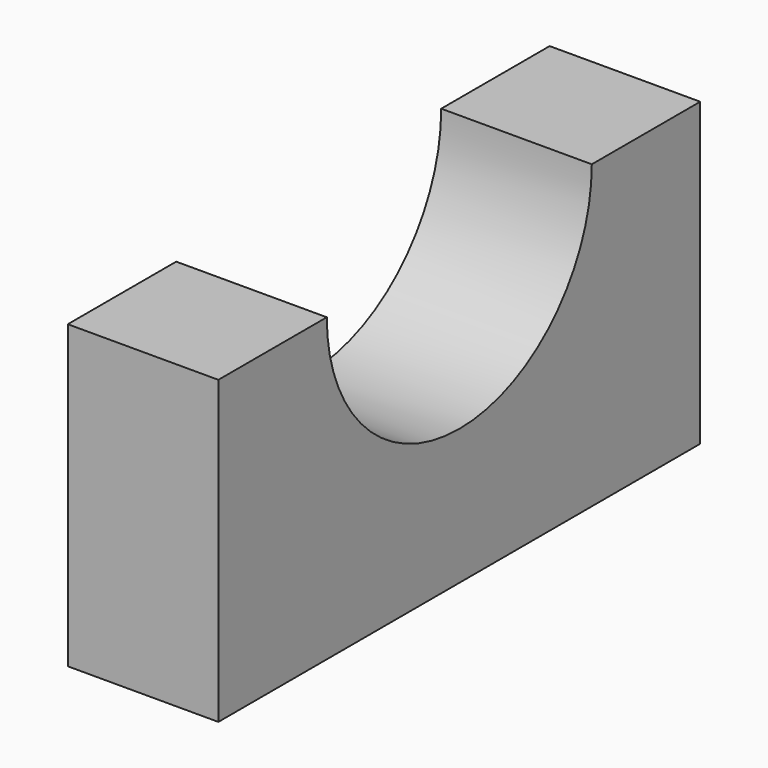
from build123d import *

# Parameters (mm, degrees)
F0_W     = 10
F0_H     = 40
F1_DEPTH = 20
F2_R     = 11
F3_DEPTH = 10.001


with BuildPart() as f1:
    # F0 (on Top) → F1 (new body)
    with BuildSketch(Plane.XY):
        Rectangle(F0_W, F0_H)
    extrude(amount=F1_DEPTH)

    # F2 (on face) → F3 (cut, through all)
    with BuildSketch(Plane(origin=(-5, 0, 0), x_dir=(0, -1, 0), z_dir=(-1, 0, 0))):
        with Locations((0, 20)):
            Circle(F2_R)
    extrude(amount=-F3_DEPTH, mode=Mode.SUBTRACT)


solid = f1.part
